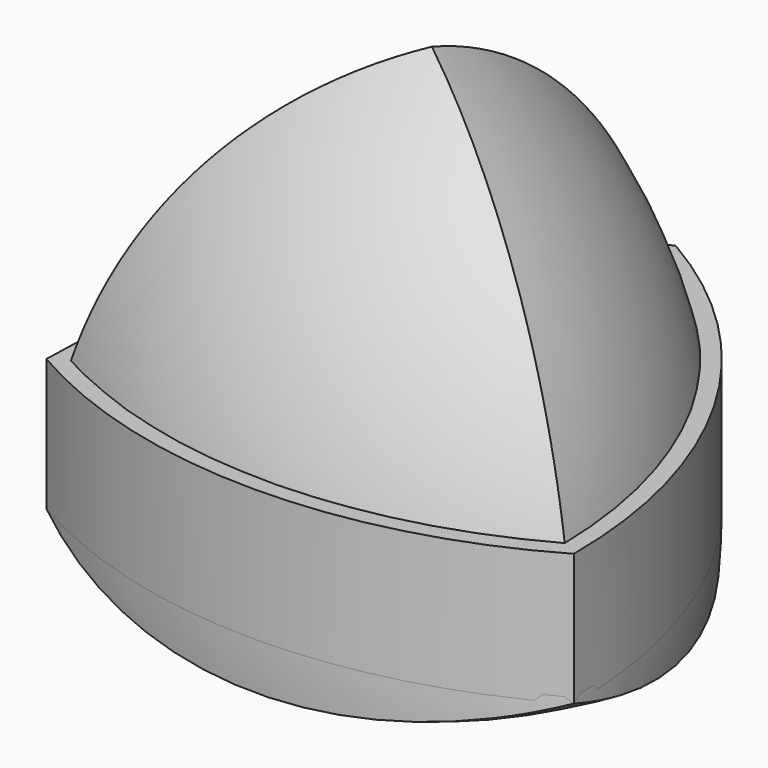
from build123d import *

# Parameters (mm, degrees)
F7_DEPTH = 25


with BuildPart() as f1:
    # F0 (on Top) → F1 (revolve)
    with BuildSketch(Plane.XY):
        with BuildLine():
            ThreePointArc((-50, -28.8675134595), (-36.6025403784, 21.1324865405), (0, 57.735026919))
            Line((0, 57.735026919), (-86.6025403784, 107.735026919))
            ThreePointArc((-86.6025403784, 107.735026919), (-96.5925826289, 31.8531224087), (-50, -28.8675134595))
        make_face()
        with BuildLine():
            ThreePointArc((50, -28.8675134595), (70.7106781187, -12.9756511997), (86.6025403784, 7.735026919))
            Line((86.6025403784, 7.735026919), (0, 57.735026919))
            ThreePointArc((0, 57.735026919), (36.6025403784, 21.1324865405), (50, -28.8675134595))
        make_face()
        with BuildLine():
            ThreePointArc((0, -42.264973081), (25.8819045103, -38.8575557099), (50, -28.8675134595))
            ThreePointArc((50, -28.8675134595), (36.6025403784, 21.1324865405), (0, 57.735026919))
            ThreePointArc((0, 57.735026919), (-36.6025403784, 21.1324865405), (-50, -28.8675134595))
            ThreePointArc((-50, -28.8675134595), (-25.8819045103, -38.8575557099), (0, -42.264973081))
        make_face()
    revolve(axis=Axis((0, 57.735026919, 0), (0.8660254038, -0.5, 0)))


with BuildPart() as f3_1:
    # F3: copy of F1
    add(f1.part.moved(Location((50, -86.6025403784, 0))))


with BuildPart() as f4_1:
    # F4: copy of F1
    add(f1.part.moved(Location((-50, -86.6025403784, 0))))


with BuildPart() as f5_1:
    # F5: copy of F1
    add(f1.part.moved(Location((0, -57.735026919, 81.6496580928))))

    # F6: intersect F3_1, F4_1, F1
    add(f3_1.part, mode=Mode.INTERSECT)
    add(f4_1.part, mode=Mode.INTERSECT)
    add(f1.part, mode=Mode.INTERSECT)


with BuildPart() as f7:
    # F0 (on Top) → F7 (new body)
    with BuildSketch(Plane.XY):
        with BuildLine():
            ThreePointArc((0, -42.264973081), (25.8819045103, -38.8575557099), (50, -28.8675134595))
            ThreePointArc((50, -28.8675134595), (36.6025403784, 21.1324865405), (0, 57.735026919))
            ThreePointArc((0, 57.735026919), (-36.6025403784, 21.1324865405), (-50, -28.8675134595))
            ThreePointArc((-50, -28.8675134595), (-25.8819045103, -38.8575557099), (0, -42.264973081))
        make_face()
    extrude(amount=F7_DEPTH)


solid = Compound([f5_1.part, f7.part])
